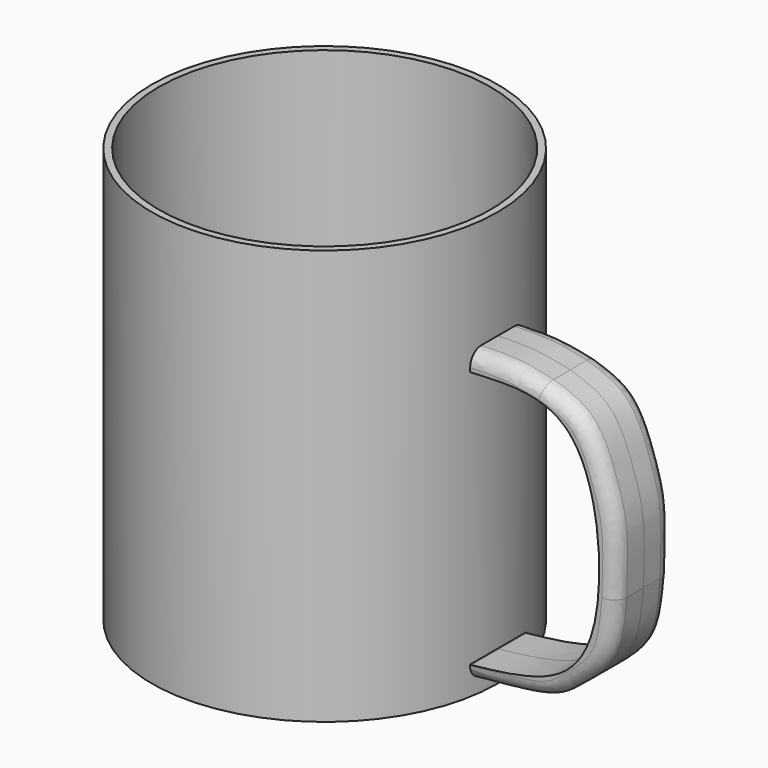
from build123d import *

# Parameters (mm, degrees)
F0_W     = 63.5
F0_H     = 152.4
F2_T     = -2.54
F4_DEPTH = 12.7
F5_R     = 5.08


with BuildPart() as f1:
    # F0 (on Front) → F1 (revolve)
    with BuildSketch(Plane.XZ):
        with Locations((-31.75, -76.2)):
            Rectangle(F0_W, F0_H)
    revolve(axis=Axis((0, 0, -76.2), (0, 0, -1)))

    # F2
    f2_openings = [f1.faces().sort_by_distance(p)[0] for p in [
        (0, 0, 0),
    ]]
    offset(amount=F2_T, openings=f2_openings)


with BuildPart() as f4:
    # F3 (on Front) → F4 (new body, symmetric)
    with BuildSketch(Plane.XZ):
        with BuildLine():
            Line((63.5541900992, -39.9501435459), (63.6112764478, -46.5133041143))
            add(Edge.make_bspline(
                [(63.6112764478, -46.5133041143), (77.0863845604, -45.7617297271), (106.7151028225, -44.1091874553), (114.4741585261, -104.9888599431), (101.2114484485, -137.0337320431), (76.6353034639, -139.6951522307), (64.0521347523, -141.057819128)],
                knots=[0, 0, 0, 0, 0.2433836706, 0.535145703, 0.7619911484, 1, 1, 1, 1], degree=3))
            Line((64.0521347523, -141.057819128), (63.5541900992, -141.057819128))
            Line((63.5541900992, -141.057819128), (63.5541900992, -141.9444978237))
            Line((63.5541900992, -141.9444978237), (63.5541900992, -142.6999866962))
            Line((63.5541900992, -142.6999866962), (63.5541900992, -146.54058218))
            add(Edge.make_bspline(
                [(63.5541900992, -146.54058218), (67.9853658419, -146.108259608), (77.1390061184, -145.2151952076), (93.5449392318, -143.3307616323), (101.7345442859, -136.3774080083), (115.2621645459, -125.5087862271), (116.4038400672, -111.5132114878), (117.0149147511, -104.022167623)],
                knots=[0, 0, 0, 0, 0.1907707258, 0.3940820001, 0.5605183102, 0.7647701736, 1, 1, 1, 1], degree=3))
            add(Edge.make_bspline(
                [(117.0149147511, -104.022167623), (117.3371314677, -95.9797606768), (117.9167360507, -81.5130502828), (114.0311747182, -68.1586467779), (106.8400100448, -47.6960320439), (95.5966822505, -44.0281451461), (90.2386009693, -42.280189693)],
                knots=[0, 0, 0, 0, 0.2775927673, 0.4993348632, 0.7614047596, 1, 1, 1, 1], degree=3))
            add(Edge.make_bspline(
                [(90.2386009693, -42.280189693), (86.072603686, -41.3767273409), (77.5608127537, -39.5308109531), (68.2883523668, -39.8084114105), (63.5541900992, -39.9501435459)],
                knots=[0, 0, 0, 0, 0.4894383939, 1, 1, 1, 1], degree=3))
        make_face()
    extrude(amount=F4_DEPTH, both=True)

    # F5
    f5_edges = [f4.edges().sort_by_distance(p)[0] for p in [
        (76.992982, -12.7, -40.030067),
        (113.726176, -12.7, -67.715255),
        (100.623078, -12.7, -137.366466),
        (100.623078, 12.7, -137.366466),
        (113.726176, 12.7, -67.715255),
        (76.992982, 12.7, -40.030067),
    ]]
    fillet(f5_edges, radius=F5_R)


solid = Compound([f1.part, f4.part])
